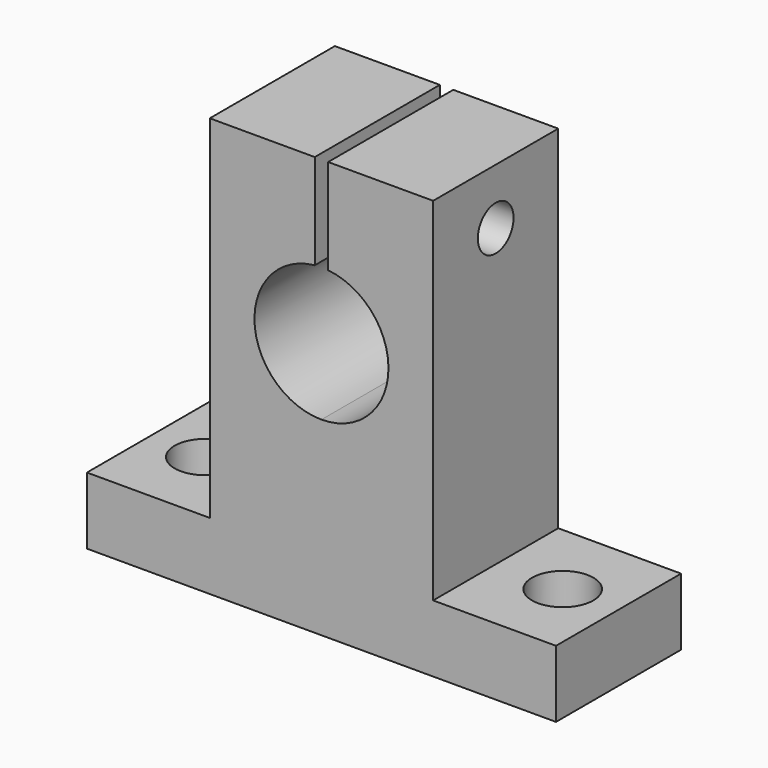
from build123d import *

# Parameters (mm, degrees)
OBJ1_R                     = 2.75
OBJ1_DEPTH                 = 8
OBJ2                     = 2.75
OBJ3                 = 8
OBJ4_PLACEMENT_ANGLE        = 90
TBOLT_SHAFT_R                    = 2
TBOLT_SHAFT_DEPTH                = 22
TBOLT_SHAFT_ROLL_ANGLE           = 90
UP_SEP_W                         = 16
UP_SEP_H                         = 1.2
UP_SEP_DEPTH                     = 15.5
SHAFT_HOLE_R                     = 6
SHAFT_HOLE_DEPTH                 = 16
SHAFT_HOLE_PITCH_ANGLE           = 90
TBOLT_HEAD_R                     = 3.85
TBOLT_HEAD_DEPTH                 = 5.4
TBOLT_HEAD_ROLL_ANGLE            = 90
SIDE_BOX_L_W                     = 14
SIDE_BOX_L_H                     = 11
SIDE_BOX_L_DEPTH                 = 31.5
SIDE_BOX_R_W                     = 14
SIDE_BOX_R_H                     = 11
SIDE_BOX_R_DEPTH                 = 31.5
TOTAL_BOX_W                      = 14
TOTAL_BOX_H                      = 42
TOTAL_BOX_DEPTH                  = 37.5
SK_SHAPE_W_HOLES_PLACEMENT_ANGLE = 90


with BuildPart() as obj1:
    # obj1 → obj1 (new body)
    with BuildSketch(Plane(origin=(7, -16, -1), x_dir=(1, 0, 0), z_dir=(0, 0, 1))):
        Circle(OBJ1_R)
    extrude(amount=OBJ1_DEPTH)


with BuildPart() as obj4:
    with BuildSketch(Plane(origin=(7, 16, -1), x_dir=(1, 0, 0), z_dir=(0, 0, 1))):
        Circle(OBJ2)
    extrude(amount=OBJ3)

    # obj4: union obj1
    add(obj1.part)


with BuildPart() as obj4_1:
    # obj4 placement: moved
    add(obj4.part.moved(Location((0, -7, 0))).rotate(Axis((0, -7, 0), (0, 0, 1)), OBJ4_PLACEMENT_ANGLE))


with BuildPart() as tbolt_shaft:
    # tbolt_shaft → tbolt_shaft (new body)
    with BuildSketch(Plane.XY):
        Circle(TBOLT_SHAFT_R)
    extrude(amount=TBOLT_SHAFT_DEPTH)


with BuildPart() as tbolt_shaft_1:
    # tbolt_shaft roll: moved
    add(tbolt_shaft.part.rotate(Axis((0, 0, 0), (1, 0, 0)), TBOLT_SHAFT_ROLL_ANGLE))


with BuildPart() as tbolt_shaft_2:
    # tbolt_shaft placement: moved
    add(tbolt_shaft_1.part.moved(Location((7, 11, 32.5))))


with BuildPart() as up_sep:
    # up_sep → up_sep (new body)
    with BuildSketch(Plane(origin=(-1, -0.6, 24), x_dir=(1, 0, 0), z_dir=(0, 0, 1))):
        with Locations((8, 0.6)):
            Rectangle(UP_SEP_W, UP_SEP_H)
    extrude(amount=UP_SEP_DEPTH)


with BuildPart() as shaft_hole:
    # shaft_hole → shaft_hole (new body)
    with BuildSketch(Plane.XY):
        Circle(SHAFT_HOLE_R)
    extrude(amount=SHAFT_HOLE_DEPTH)


with BuildPart() as shaft_hole_1:
    # shaft_hole pitch: moved
    add(shaft_hole.part.rotate(Axis((0, 0, 0), (0, 1, 0)), SHAFT_HOLE_PITCH_ANGLE))


with BuildPart() as shaft_hole_2:
    # shaft_hole placement: moved
    add(shaft_hole_1.part.moved(Location((-1, 0, 23))))


with BuildPart() as fuse_shaft_holes:
    # tbolt_head → tbolt_head (new body)
    with BuildSketch(Plane.XY):
        Circle(TBOLT_HEAD_R)
    extrude(amount=TBOLT_HEAD_DEPTH)


with BuildPart() as fuse_shaft_holes_1:
    # tbolt_head roll: moved
    add(fuse_shaft_holes.part.rotate(Axis((0, 0, 0), (1, 0, 0)), TBOLT_HEAD_ROLL_ANGLE))


with BuildPart() as fuse_shaft_holes_2:
    # tbolt_head placement: moved
    add(fuse_shaft_holes_1.part.moved(Location((7, 11, 32.5))))

    # fuse_shaft_holes: union tbolt_shaft, up_sep, shaft_hole
    add(tbolt_shaft_2.part)
    add(up_sep.part)
    add(shaft_hole_2.part)


with BuildPart() as side_box_l:
    # side_box_l → side_box_l (new body)
    with BuildSketch(Plane(origin=(0, -21, 6), x_dir=(1, 0, 0), z_dir=(0, 0, 1))):
        with Locations((7, 5.5)):
            Rectangle(SIDE_BOX_L_W, SIDE_BOX_L_H)
    extrude(amount=SIDE_BOX_L_DEPTH)


with BuildPart() as side_boxes:
    # side_box_r → side_box_r (new body)
    with BuildSketch(Plane(origin=(0, 10, 6), x_dir=(1, 0, 0), z_dir=(0, 0, 1))):
        with Locations((7, 5.5)):
            Rectangle(SIDE_BOX_R_W, SIDE_BOX_R_H)
    extrude(amount=SIDE_BOX_R_DEPTH)

    # side_boxes: union side_box_l
    add(side_box_l.part)


with BuildPart() as obj5:
    # total_box → total_box (new body)
    with BuildSketch(Plane(origin=(0, -21, 0), x_dir=(1, 0, 0), z_dir=(0, 0, 1))):
        with Locations((7, 21)):
            Rectangle(TOTAL_BOX_W, TOTAL_BOX_H)
    extrude(amount=TOTAL_BOX_DEPTH)

    # sk_shape: cut side_boxes
    add(side_boxes.part, mode=Mode.SUBTRACT)

    # sk_shape_w_holes: cut fuse_shaft_holes
    add(fuse_shaft_holes_2.part, mode=Mode.SUBTRACT)


with BuildPart() as obj5_1:
    # sk_shape_w_holes placement: moved
    add(obj5.part.moved(Location((0, -7, 0))).rotate(Axis((0, -7, 0), (0, 0, 1)), SK_SHAPE_W_HOLES_PLACEMENT_ANGLE))

    # sk12_fr: cut obj4
    add(obj4_1.part, mode=Mode.SUBTRACT)


with BuildPart() as obj5_2:
    # sk12_fr placement: moved
    add(obj5_1.part.moved(Location((96.9, 286, 30))))


with BuildPart() as obj5_3:
    # Clone014 placement: moved
    add(obj5_2.part.moved(Location((-193.8, 0, 0))))


solid = obj5_3.part
